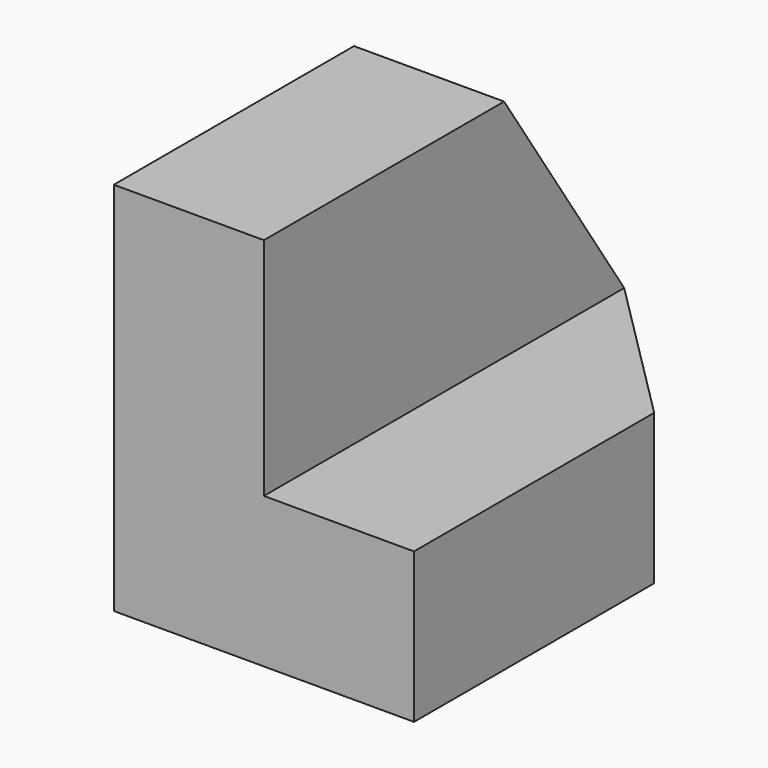
from build123d import *

# Parameters (mm, degrees)
F1_DEPTH = 38.1
F3_DEPTH = 25.4
F5_DEPTH = 38.1


with BuildPart() as f1:
    # F0 (on Front) → F1 (new body)
    with BuildSketch(Plane.XZ):
        Polygon((0, 31.75), (0, 0), (25.4, 0), (25.4, 12.7), (12.7, 12.7), (12.7, 31.75), align=None)
    extrude(amount=F1_DEPTH)

    # F2 (on face) → F3 (cut)
    with BuildSketch(Plane.XY.offset(12.7)):
        Polygon((25.4, 0), (12.7, 0), (25.4, -12.7), align=None)
    extrude(amount=-F3_DEPTH, mode=Mode.SUBTRACT)

    # F4 (on face) → F5 (cut)
    with BuildSketch(Plane.YZ.offset(12.7)):
        Polygon((-12.7, 31.75), (0, 12.7), (0, 31.75), align=None)
    extrude(amount=-F5_DEPTH, mode=Mode.SUBTRACT)


solid = f1.part
